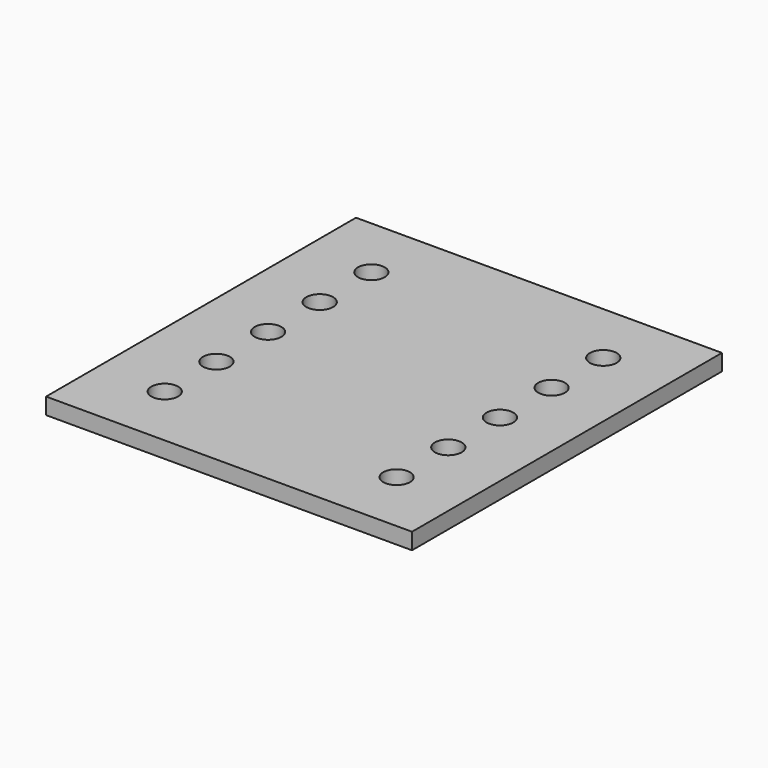
from build123d import *

# Parameters (mm, degrees)
F0_R     = 2.54
F1_DEPTH = 1.5494


with BuildPart() as f1:
    # F0 (on Top) → F1 (new body, symmetric)
    with BuildSketch(Plane.XY):
        Polygon((-21.901621, 36.703), (-34.671, 36.703), (-34.671, -36.703), (-3.244379, -36.703), (-3.175, -36.703), (21.901621, -36.703), (34.671, -36.703), (34.671, 36.703), (3.175, 36.703), (-3.175, 36.703), align=None)
        with Locations((-21.971, -24.47544)):
            Circle(F0_R, mode=Mode.SUBTRACT)
        with Locations((-21.971, -12.23264)):
            Circle(F0_R, mode=Mode.SUBTRACT)
        with Locations((21.971, -24.47544)):
            Circle(F0_R, mode=Mode.SUBTRACT)
        with Locations((21.971, -12.23264)):
            Circle(F0_R, mode=Mode.SUBTRACT)
        with Locations((-21.971, 0)):
            Circle(F0_R, mode=Mode.SUBTRACT)
        with Locations((-21.971, 12.23264)):
            Circle(F0_R, mode=Mode.SUBTRACT)
        with Locations((-21.971, 24.47544)):
            Circle(F0_R, mode=Mode.SUBTRACT)
        with Locations((21.971, 0)):
            Circle(F0_R, mode=Mode.SUBTRACT)
        with Locations((21.971, 12.23264)):
            Circle(F0_R, mode=Mode.SUBTRACT)
        with Locations((21.971, 24.47544)):
            Circle(F0_R, mode=Mode.SUBTRACT)
    extrude(amount=F1_DEPTH, both=True)


solid = f1.part
